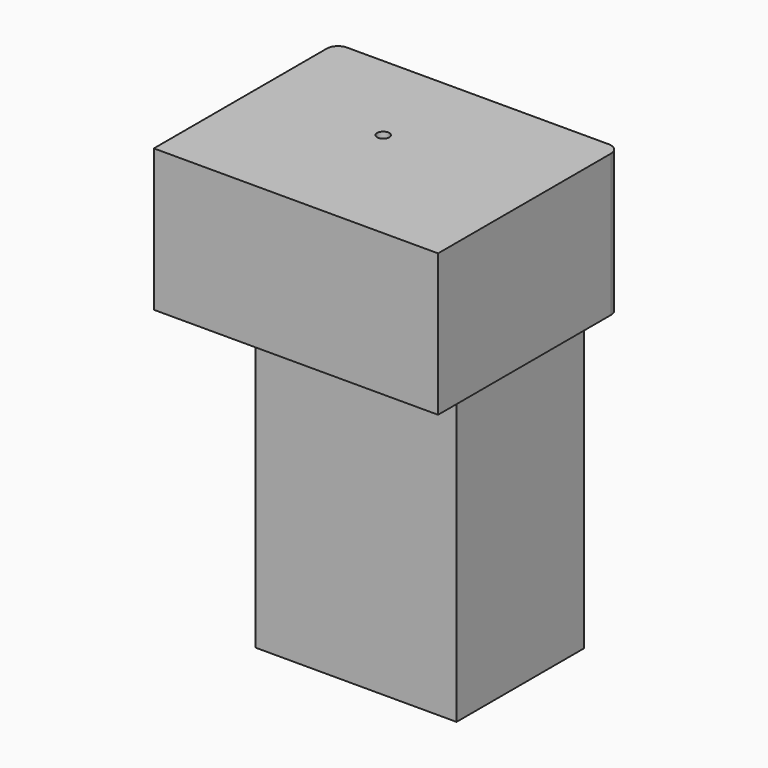
from build123d import *

# Parameters (mm, degrees)
F0_W     = 127
F0_H     = 63.5
F1_DEPTH = 50.8
F3_D     = 5.4102
F3_DEPTH = 12.7
F3_TIP   = 1.6253880605
F6_W     = 89.9240933359
F6_H     = 71.2126605213
F5_DEPTH = 132.9497303814
F7_R     = 5


with BuildPart() as f1:
    # F0 (on Front) → F1 (new body, symmetric)
    with BuildSketch(Plane.XZ):
        with Locations((11.2671367824, -14.1953701283)):
            Rectangle(F0_W, F0_H)
    extrude(amount=F1_DEPTH, both=True)

    # F3
    with Locations(Plane.XY.offset(17.5546298717)):
        with Locations((4.0161549114, 7.0065222681)):
            Hole(F3_D / 2, depth=F3_DEPTH)
            with Locations((0, 0, -(F3_DEPTH + F3_TIP / 2))):  # 118° drill point
                Cone(0, F3_D / 2, F3_TIP, mode=Mode.SUBTRACT)

    # F6 (on face) → F5 (join)
    with BuildSketch(Plane(origin=(0, 0, -45.9453701283), x_dir=(1, 0, 0), z_dir=(0, 0, -1))):
        with Locations((20.2872846276, -7.0287231356)):
            Rectangle(F6_W, F6_H)
    extrude(amount=F5_DEPTH)

    # F7
    f7_edges = [f1.edges().sort_by_distance(p)[0] for p in [
        (74.767137, 50.8, -14.19537),
        (-52.232863, 50.8, -14.19537),
    ]]
    fillet(f7_edges, radius=F7_R)


solid = f1.part
